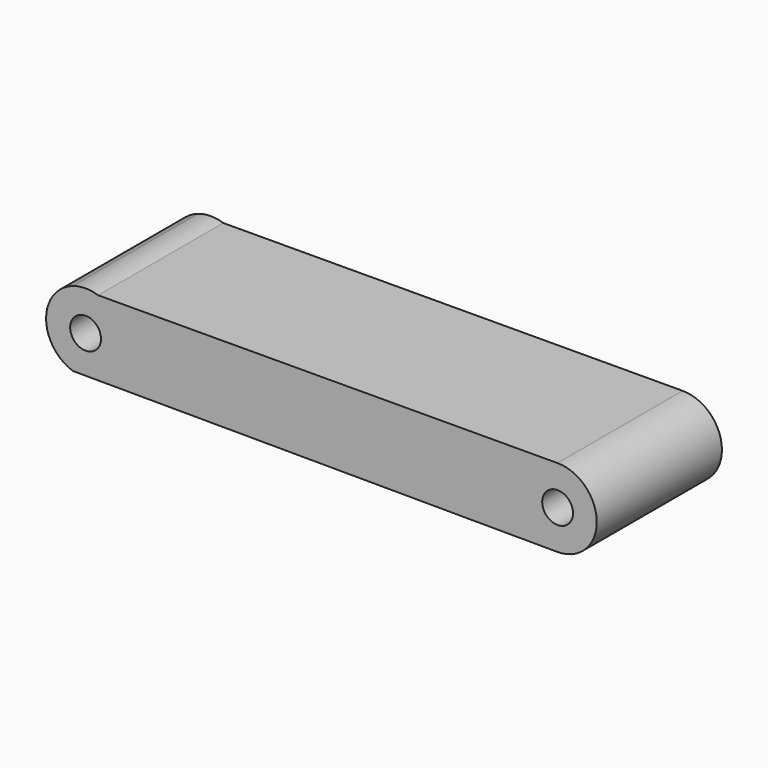
from build123d import *

# Parameters (mm, degrees)
F0_R     = 2.5019
F1_DEPTH = 25.4


with BuildPart() as f1:
    # F0 (on Front) → F1 (new body)
    with BuildSketch(Plane.XZ):
        with BuildLine():
            Line((-38.136764, 6.070839), (-34.030506, 6.085567))
            ThreePointArc((-34.030506, 6.085567), (-36.084845, 6.415597), (-38.136764, 6.070839))
        make_face()
        with BuildLine():
            Line((40.540588, 6.353032), (-34.030506, 6.085567))
            Line((-34.030506, 6.085567), (-38.136764, 6.070839))
            ThreePointArc((-38.136764, 6.070839), (-42.477473, 0), (-38.136764, -6.070839))
            Line((-38.136764, -6.070839), (40.540588, -6.353032))
            ThreePointArc((40.540588, -6.353032), (46.916448, 0), (40.540588, 6.353032))
        make_face()
        with Locations((-36.061835, 0)):
            Circle(F0_R, mode=Mode.SUBTRACT)
        with Locations((40.563375, 0)):
            Circle(F0_R, mode=Mode.SUBTRACT)
    extrude(amount=F1_DEPTH)


solid = f1.part
